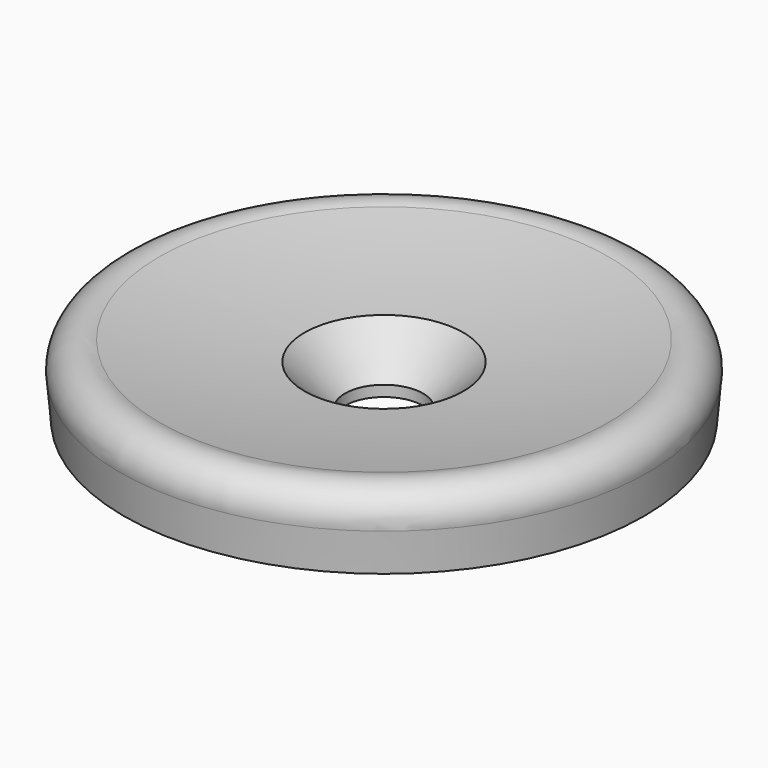
from build123d import *

# Parameters (mm, degrees)
F4_D           = 3.3
F4_START       = 0.1028499
F4_CSINK_D     = 6.72
F4_CSINK_ANGLE = 90


with BuildPart() as f1:
    # F0 (on Front) → F1 (revolve)
    with BuildSketch(Plane.XZ):
        with BuildLine():
            Line((-11, 0), (0, 0))
            Line((0, 0), (0, 2))
            ThreePointArc((0, 2), (-4.7687593819, 2.2975760402), (-9.4948802143, 3))
            ThreePointArc((-9.4948802143, 3), (-10.7108451488, 2.8125217319), (-11.1452048439, 1.6614133625))
            Line((-11.1452048439, 1.6614133625), (-11, 0))
        make_face()
    revolve(axis=Axis((0, 0, 1), (0, 0, -1)))

    # F4 (through all)
    # its depths count from where the whole tool has entered the part; down to there all is cleared
    with Locations(Plane.XY.offset(2.27).offset(-F4_START)):
        with Locations((0, 0)):
            CounterSinkHole(F4_D / 2, F4_CSINK_D / 2, counter_sink_angle=F4_CSINK_ANGLE)


solid = f1.part
